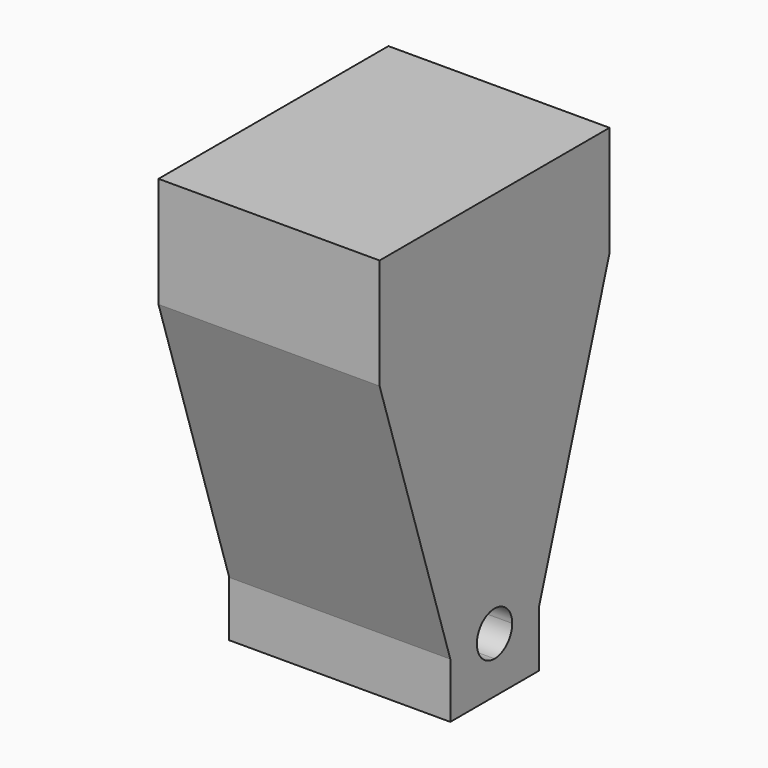
from build123d import *

# Parameters (mm, degrees)
F0_W     = 6.35
F0_H     = 12.7
F0_W_2   = 10.16
F1_DEPTH = 25.4


with BuildPart() as f1:
    # F0 (on Right) → F1 (new body)
    with BuildSketch(Plane.YZ):
        with Locations((3.175, -6.35)):
            Rectangle(F0_W, F0_H)
        with Locations((-5.08, -6.35)):
            Rectangle(F0_W_2, F0_H)
        with Locations((9.525, -6.35)):
            Rectangle(F0_W, F0_H)
        with BuildLine():
            Line((6.35, -12.7), (0, -12.7))
            Line((0, -12.7), (0, -44.45))
            Line((0, -44.45), (3.81, -44.45))
            ThreePointArc((3.81, -44.45), (4.5539487758, -42.6539487758), (6.35, -41.91))
            Line((6.35, -41.91), (6.35, -12.7))
        make_face()
        Polygon((0, -44.45), (0, -12.7), (-10.16, -12.7), align=None)
        with Locations((17.78, -6.35)):
            Rectangle(F0_W_2, F0_H)
        with BuildLine():
            Line((12.7, -12.7), (6.35, -12.7))
            Line((6.35, -12.7), (6.35, -41.91))
            ThreePointArc((6.35, -41.91), (8.1460512242, -42.6539487758), (8.89, -44.45))
            Line((8.89, -44.45), (12.7, -44.45))
            Line((12.7, -44.45), (12.7, -12.7))
        make_face()
        with BuildLine():
            Line((3.81, -44.45), (0, -44.45))
            Line((0, -44.45), (0, -50.8))
            Line((0, -50.8), (6.35, -50.8))
            Line((6.35, -50.8), (6.35, -46.99))
            ThreePointArc((6.35, -46.99), (4.5539487758, -46.2460512242), (3.81, -44.45))
        make_face()
        Polygon((22.86, -12.7), (12.7, -12.7), (12.7, -44.45), align=None)
        with BuildLine():
            Line((12.7, -50.8), (12.7, -44.45))
            Line((12.7, -44.45), (8.89, -44.45))
            ThreePointArc((8.89, -44.45), (8.1460512242, -46.2460512242), (6.35, -46.99))
            Line((6.35, -46.99), (6.35, -50.8))
            Line((6.35, -50.8), (12.7, -50.8))
        make_face()
    extrude(amount=F1_DEPTH)


solid = f1.part
